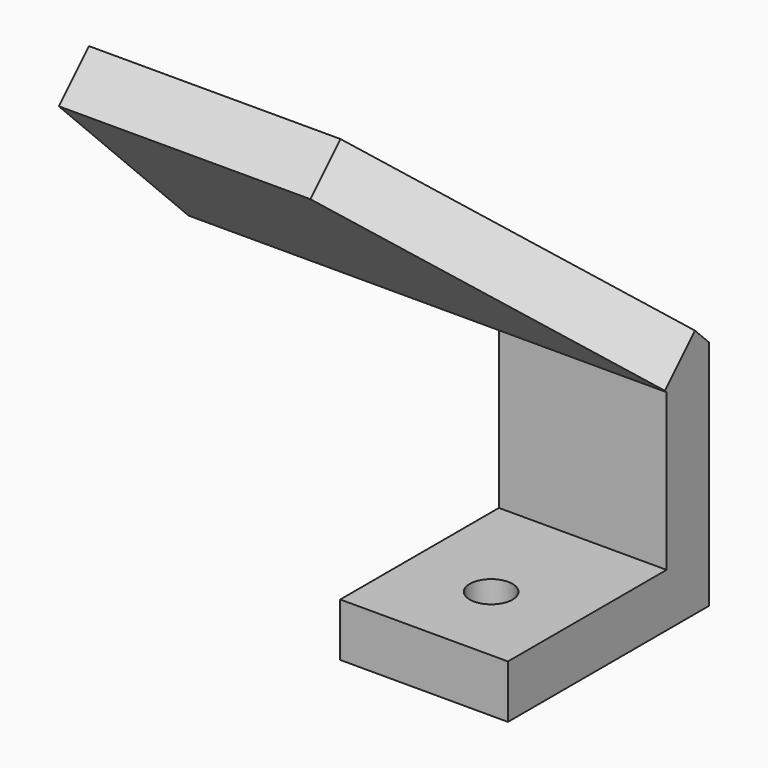
from build123d import *

# Parameters (mm, degrees)
PAD028_DEPTH         = 57
SKETCH078_W          = 50
SKETCH078_H          = 25
POCKET021_DEPTH      = 30.001
POCKET021_DEPTH_BACK = 0.001
CHAMFER003_SIZE      = 27
SKETCH079_R          = 2.55
HOLE016_DEPTH        = 6.351


with BuildPart() as part:
    # Sketch077 → Pad028 (new body)
    with BuildSketch(Plane.YZ):
        Polygon((0, 0), (0, 6.35), (23.65, 6.35), (23.65, 25), (4.296669, 44.353331), (8.786797, 48.84346), (30, 27.630256), (30, 0), align=None)
    extrude(amount=-PAD028_DEPTH)

    # Sketch078 → Pocket021 (cut, two sides)
    with BuildSketch(Plane.XZ) as pocket021_sk:
        with Locations((-45, 12.5)):
            Rectangle(SKETCH078_W, SKETCH078_H)
    extrude(amount=-POCKET021_DEPTH, mode=Mode.SUBTRACT)
    extrude(pocket021_sk.sketch, amount=POCKET021_DEPTH_BACK, mode=Mode.SUBTRACT)

    # Chamfer003
    chamfer003_edges = [part.edges().sort_by_distance(p)[0] for p in [
        (0, 6.541733, 46.598396),
    ]]
    chamfer(chamfer003_edges, length=CHAMFER003_SIZE)

    # Sketch079 → Hole016 (cut, through all)
    with BuildSketch(Plane.XY.offset(6.35)):
        with Locations((-10, 10)):
            Circle(SKETCH079_R)
    extrude(amount=-HOLE016_DEPTH, mode=Mode.SUBTRACT)


solid = part.part
